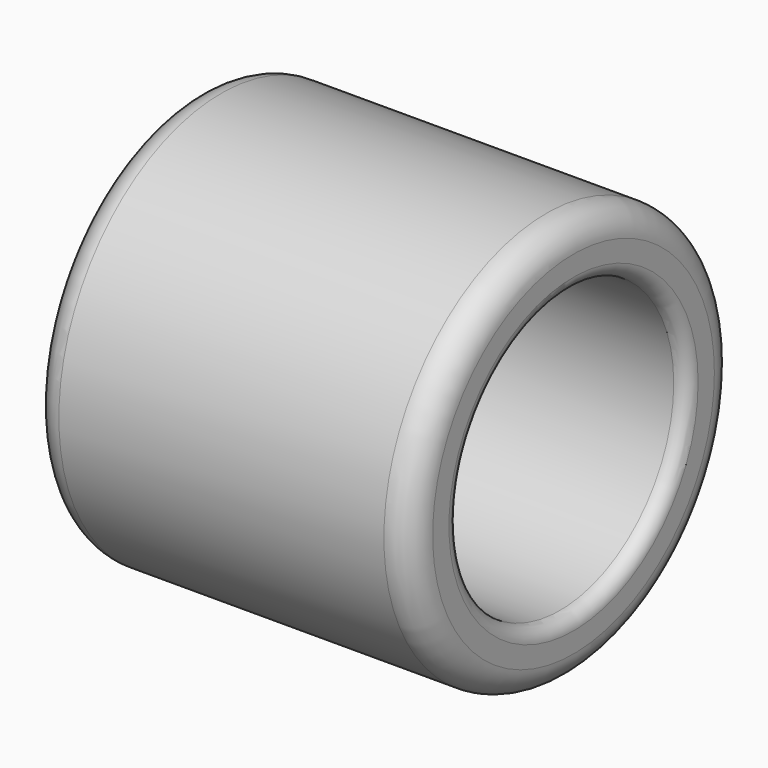
from build123d import *

# Parameters (mm, degrees)
F0_R     = 7.5
F0_R_2   = 5.25
F1_DEPTH = 14
F2_R     = 1
F3_R     = 0.5


with BuildPart() as f1:
    # F0 (on Right) → F1 (new body)
    with BuildSketch(Plane.YZ):
        Circle(F0_R)
        Circle(F0_R_2, mode=Mode.SUBTRACT)
    extrude(amount=F1_DEPTH)

    # F2
    f2_edges = [f1.edges().sort_by_distance(p)[0] for p in [
        (0, -7.5, 0),
        (14, -7.5, 0),
    ]]
    fillet(f2_edges, radius=F2_R)

    # F3
    f3_edges = [f1.edges().sort_by_distance(p)[0] for p in [
        (14, -5.25, 0),
        (7, 5.25, 0),
        (0, -5.25, 0),
    ]]
    fillet(f3_edges, radius=F3_R)


solid = f1.part
